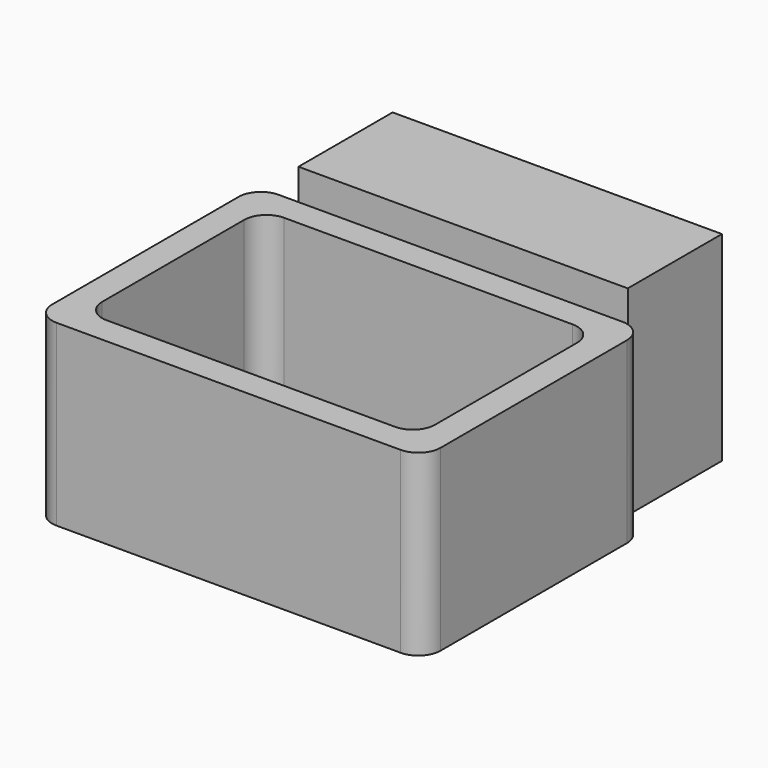
from build123d import *

# Parameters (mm, degrees)
F0_W     = 88.9
F0_H     = 63.5
F1_DEPTH = 40.894
F2_T     = -6.35
F3_R     = 5.08
F5_DEPTH = 45.72


with BuildPart() as f1:
    # F0 (on Top) → F1 (new body)
    with BuildSketch(Plane.XY):
        Rectangle(F0_W, F0_H)
    extrude(amount=F1_DEPTH)

    # F2
    f2_openings = [f1.faces().sort_by_distance(p)[0] for p in [
        (0, 0, 40.894),
    ]]
    offset(amount=F2_T, openings=f2_openings)

    # F3
    f3_edges = [f1.edges().sort_by_distance(p)[0] for p in [
        (-44.45, 31.75, 20.447),
        (44.45, 31.75, 20.447),
        (44.45, -31.75, 20.447),
        (-44.45, -31.75, 20.447),
        (-38.1, -25.4, 23.622),
        (38.1, -25.4, 23.622),
        (38.1, 25.4, 23.622),
        (-38.1, 25.4, 23.622),
    ]]
    fillet(f3_edges, radius=F3_R)


with BuildPart() as f5:
    # F4 (on Top) → F5 (new body)
    with BuildSketch(Plane.XY):
        Polygon((-37.5835106074, 62.148632512), (-37.5835106074, 35.2062415301), (0, 35.2062415301), (0.1132027104, 62.148632512), align=None)
        Polygon((0.1132027104, 62.148632512), (0, 35.2062415301), (37.8099160281, 35.2062415301), (37.8099160281, 62.148632512), align=None)
    extrude(amount=F5_DEPTH)


solid = Compound([f1.part, f5.part])
